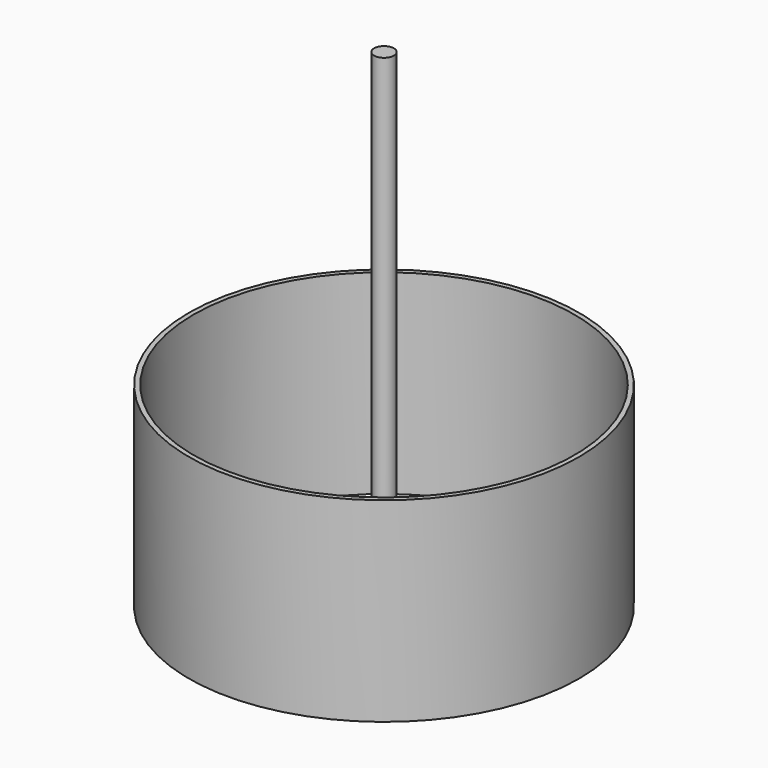
from build123d import *

# Parameters (mm, degrees)
F0_R     = 304.8
F1_DEPTH = 304.8
F3_D     = 594.741
F4_R     = 15.539023
F5_DEPTH = 762.4917


with BuildPart() as f1:
    # F0 (on Top) → F1 (new body)
    with BuildSketch(Plane.XY):
        Circle(F0_R)
    extrude(amount=F1_DEPTH)

    # F3 (through all)
    with Locations(Plane.XY.offset(304.8)):
        with Locations((0, 0)):
            Hole(F3_D / 2)


with BuildPart() as f5:
    # F4 (on face) → F5 (new body)
    with BuildSketch(Plane(origin=(0, 0, 0), x_dir=(1, 0, 0), z_dir=(0, 0, -1))):
        Circle(F4_R)
    extrude(amount=-F5_DEPTH)


solid = Compound([f1.part, f5.part])
